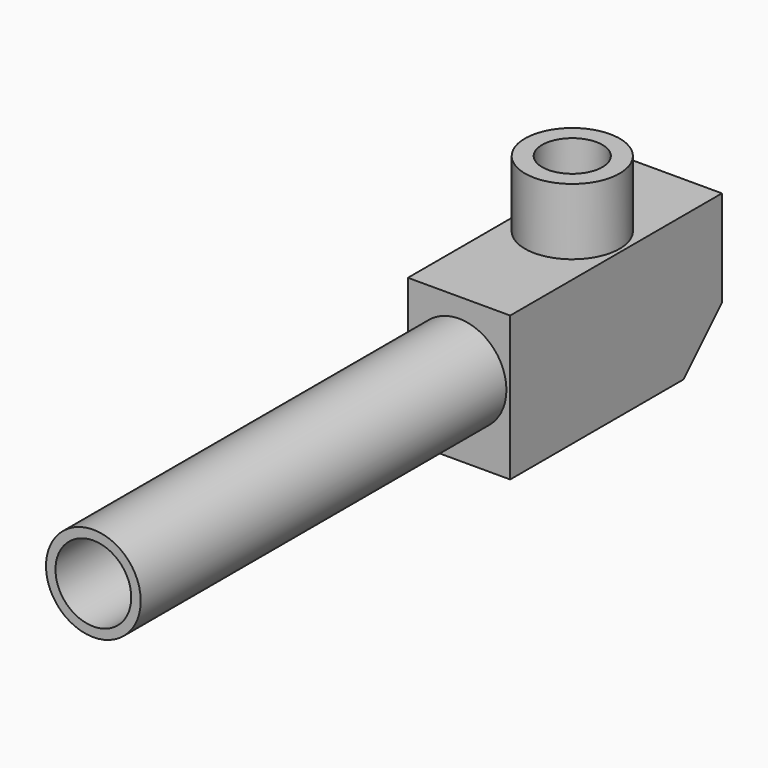
from build123d import *

# Parameters (mm, degrees)
PAD_DEPTH     = 26.9875
SKETCH001_R   = 25
SKETCH001_R_2 = 15.925
PAD001_DEPTH  = 35
SKETCH002_R   = 25
SKETCH002_R_2 = 20
PAD002_DEPTH  = 381
SKETCH003_R   = 3.175
POCKET_DEPTH  = 12.7


with BuildPart() as part:
    # Sketch → Pad (new body, symmetric)
    with BuildSketch(Plane.YZ):
        Polygon((-25.4, -76.2), (-139.7, -76.2), (-139.7, 0), (0, 0), (0, -50.8), align=None)
    extrude(amount=PAD_DEPTH, both=True)

    # Sketch001 (on Face3 of Pad) → Pad001 (join)
    with BuildSketch(Plane(origin=(0, 0, 0), x_dir=(0, -1, 0), z_dir=(0, 0, 1))):
        with Locations((65, 0)):
            Circle(SKETCH001_R)
        with Locations((65, 0)):
            Circle(SKETCH001_R_2, mode=Mode.SUBTRACT)
    extrude(amount=PAD001_DEPTH)

    # Sketch002 → Pad002 (join)
    with BuildSketch(Plane.XZ):
        with Locations((0, -35.194401)):
            Circle(SKETCH002_R)
        with Locations((0, -35.194401)):
            Circle(SKETCH002_R_2, mode=Mode.SUBTRACT)
    extrude(amount=PAD002_DEPTH)

    # Sketch003 (on Face1 of Pad002) → Pocket (cut)
    with BuildSketch(Plane.YX.offset(76.2)):
        with Locations((-127, 0)):
            Circle(SKETCH003_R)
        with Locations((-95.25, 0)):
            Circle(SKETCH003_R)
    extrude(amount=-POCKET_DEPTH, mode=Mode.SUBTRACT)


solid = part.part
